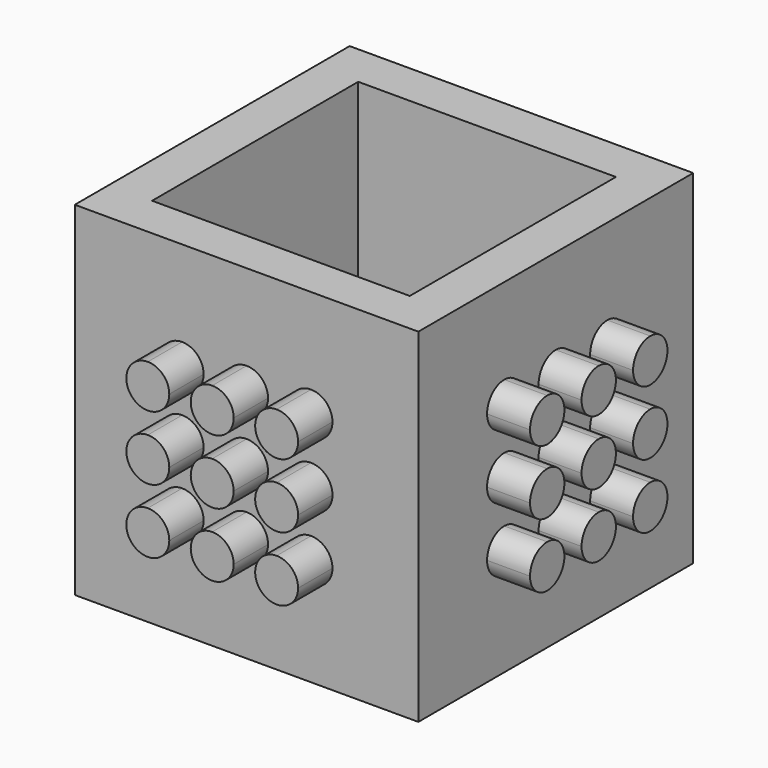
from build123d import *

# Parameters (mm, degrees)
F0_W      = 40
F0_H      = 40
F0_W_2    = 30
F0_H_2    = 30
F1_DEPTH  = 5
F2_W      = 40
F2_H      = 40
F2_W_2    = 30
F2_H_2    = 30
F3_DEPTH  = 35
F8_DEPTH  = 5
F9_DEPTH  = 5
F10_DEPTH = 5
F11_DEPTH = 5


with BuildPart() as f1:
    # F0 (on Top) → F1 (new body)
    with BuildSketch(Plane.XY):
        with Locations((20, 20)):
            Rectangle(F0_W, F0_H)
        with Locations((20, 20)):
            Rectangle(F0_W_2, F0_H_2, mode=Mode.SUBTRACT)
        with Locations((20, 20)):
            Rectangle(F0_W_2, F0_H_2)
    extrude(amount=F1_DEPTH)

    # F2 (on face) → F3 (join)
    with BuildSketch(Plane.XY.offset(5)):
        with Locations((20, 20)):
            Rectangle(F2_W, F2_H)
        with Locations((20, 20)):
            Rectangle(F2_W_2, F2_H_2, mode=Mode.SUBTRACT)
    extrude(amount=F3_DEPTH)

    # F7 (on face) → F8 (join)
    with BuildSketch(Plane(origin=(0, 0, 0), x_dir=(0, -1, 0), z_dir=(-1, 0, 0))):
        with BuildLine():
            ThreePointArc((-27.5, 30), (-29.267766953, 29.267766953), (-30, 27.5))
            ThreePointArc((-30, 27.5), (-29.267766953, 25.732233047), (-27.5, 25))
            ThreePointArc((-27.5, 25), (-25.732233047, 25.732233047), (-25, 27.5))
            ThreePointArc((-25, 27.5), (-25.732233047, 29.267766953), (-27.5, 30))
        make_face()
        with BuildLine():
            ThreePointArc((-17.5, 27.5), (-18.232233047, 29.267766953), (-20, 30))
            ThreePointArc((-20, 30), (-21.767766953, 29.267766953), (-22.5, 27.5))
            ThreePointArc((-22.5, 27.5), (-21.767766953, 25.732233047), (-20, 25))
            ThreePointArc((-20, 25), (-18.232233047, 25.732233047), (-17.5, 27.5))
        make_face()
        with BuildLine():
            ThreePointArc((-12.5, 25), (-10.732233047, 25.732233047), (-10, 27.5))
            ThreePointArc((-10, 27.5), (-10.732233047, 29.267766953), (-12.5, 30))
            ThreePointArc((-12.5, 30), (-14.267766953, 29.267766953), (-15, 27.5))
            ThreePointArc((-15, 27.5), (-14.267766953, 25.732233047), (-12.5, 25))
        make_face()
        with BuildLine():
            ThreePointArc((-15, 12.5), (-14.267766953, 10.732233047), (-12.5, 10))
            ThreePointArc((-12.5, 10), (-10.732233047, 10.732233047), (-10, 12.5))
            ThreePointArc((-10, 12.5), (-10.732233047, 14.267766953), (-12.5, 15))
            ThreePointArc((-12.5, 15), (-14.267766953, 14.267766953), (-15, 12.5))
        make_face()
        with BuildLine():
            ThreePointArc((-22.5, 12.5), (-21.767766953, 10.732233047), (-20, 10))
            ThreePointArc((-20, 10), (-18.232233047, 10.732233047), (-17.5, 12.5))
            ThreePointArc((-17.5, 12.5), (-18.232233047, 14.267766953), (-20, 15))
            ThreePointArc((-20, 15), (-21.767766953, 14.267766953), (-22.5, 12.5))
        make_face()
        with BuildLine():
            ThreePointArc((-30, 12.5), (-29.267766953, 10.732233047), (-27.5, 10))
            ThreePointArc((-27.5, 10), (-25.732233047, 10.732233047), (-25, 12.5))
            ThreePointArc((-25, 12.5), (-25.732233047, 14.267766953), (-27.5, 15))
            ThreePointArc((-27.5, 15), (-29.267766953, 14.267766953), (-30, 12.5))
        make_face()
        with BuildLine():
            ThreePointArc((-27.5, 22.5), (-29.267766953, 21.767766953), (-30, 20))
            ThreePointArc((-30, 20), (-29.267766953, 18.232233047), (-27.5, 17.5))
            ThreePointArc((-27.5, 17.5), (-25.732233047, 18.232233047), (-25, 20))
            ThreePointArc((-25, 20), (-25.732233047, 21.767766953), (-27.5, 22.5))
        make_face()
        with BuildLine():
            ThreePointArc((-12.5, 17.5), (-10.732233047, 18.232233047), (-10, 20))
            ThreePointArc((-10, 20), (-10.732233047, 21.767766953), (-12.5, 22.5))
            ThreePointArc((-12.5, 22.5), (-14.267766953, 21.767766953), (-15, 20))
            ThreePointArc((-15, 20), (-14.267766953, 18.232233047), (-12.5, 17.5))
        make_face()
        with BuildLine():
            ThreePointArc((-22.5, 20), (-21.767766953, 18.232233047), (-20, 17.5))
            ThreePointArc((-20, 17.5), (-18.232233047, 18.232233047), (-17.5, 20))
            ThreePointArc((-17.5, 20), (-18.232233047, 21.767766953), (-20, 22.5))
            ThreePointArc((-20, 22.5), (-21.767766953, 21.767766953), (-22.5, 20))
        make_face()
    extrude(amount=F8_DEPTH)

    # F4 (on Front) → F9 (join)
    with BuildSketch(Plane.XZ):
        with BuildLine():
            ThreePointArc((10, 12.5), (10.732233047, 10.732233047), (12.5, 10))
            ThreePointArc((12.5, 10), (14.267766953, 10.732233047), (15, 12.5))
            ThreePointArc((15, 12.5), (14.267766953, 14.267766953), (12.5, 15))
            ThreePointArc((12.5, 15), (10.732233047, 14.267766953), (10, 12.5))
        make_face()
        with BuildLine():
            ThreePointArc((17.5, 12.5), (18.232233047, 10.732233047), (20, 10))
            ThreePointArc((20, 10), (21.767766953, 10.732233047), (22.5, 12.5))
            ThreePointArc((22.5, 12.5), (21.767766953, 14.267766953), (20, 15))
            ThreePointArc((20, 15), (18.232233047, 14.267766953), (17.5, 12.5))
        make_face()
        with BuildLine():
            ThreePointArc((25, 12.5), (25.732233047, 10.732233047), (27.5, 10))
            ThreePointArc((27.5, 10), (29.267766953, 10.732233047), (30, 12.5))
            ThreePointArc((30, 12.5), (29.267766953, 14.267766953), (27.5, 15))
            ThreePointArc((27.5, 15), (25.732233047, 14.267766953), (25, 12.5))
        make_face()
        with BuildLine():
            ThreePointArc((27.5, 17.5), (29.267766953, 18.232233047), (30, 20))
            ThreePointArc((30, 20), (29.267766953, 21.767766953), (27.5, 22.5))
            ThreePointArc((27.5, 22.5), (25.732233047, 21.767766953), (25, 20))
            ThreePointArc((25, 20), (25.732233047, 18.232233047), (27.5, 17.5))
        make_face()
        with BuildLine():
            ThreePointArc((17.5, 20), (18.232233047, 18.232233047), (20, 17.5))
            ThreePointArc((20, 17.5), (21.767766953, 18.232233047), (22.5, 20))
            ThreePointArc((22.5, 20), (21.767766953, 21.767766953), (20, 22.5))
            ThreePointArc((20, 22.5), (18.232233047, 21.767766953), (17.5, 20))
        make_face()
        with BuildLine():
            ThreePointArc((12.5, 22.5), (10.732233047, 21.767766953), (10, 20))
            ThreePointArc((10, 20), (10.732233047, 18.232233047), (12.5, 17.5))
            ThreePointArc((12.5, 17.5), (14.267766953, 18.232233047), (15, 20))
            ThreePointArc((15, 20), (14.267766953, 21.767766953), (12.5, 22.5))
        make_face()
        with BuildLine():
            ThreePointArc((12.5, 30), (10.732233047, 29.267766953), (10, 27.5))
            ThreePointArc((10, 27.5), (10.732233047, 25.732233047), (12.5, 25))
            ThreePointArc((12.5, 25), (14.267766953, 25.732233047), (15, 27.5))
            ThreePointArc((15, 27.5), (14.267766953, 29.267766953), (12.5, 30))
        make_face()
        with BuildLine():
            ThreePointArc((22.5, 27.5), (21.767766953, 29.267766953), (20, 30))
            ThreePointArc((20, 30), (18.232233047, 29.267766953), (17.5, 27.5))
            ThreePointArc((17.5, 27.5), (18.232233047, 25.732233047), (20, 25))
            ThreePointArc((20, 25), (21.767766953, 25.732233047), (22.5, 27.5))
        make_face()
        with BuildLine():
            ThreePointArc((27.5, 25), (29.267766953, 25.732233047), (30, 27.5))
            ThreePointArc((30, 27.5), (29.267766953, 29.267766953), (27.5, 30))
            ThreePointArc((27.5, 30), (25.732233047, 29.267766953), (25, 27.5))
            ThreePointArc((25, 27.5), (25.732233047, 25.732233047), (27.5, 25))
        make_face()
    extrude(amount=F9_DEPTH)

    # F6 (on face) → F10 (join)
    with BuildSketch(Plane(origin=(0, 40, 0), x_dir=(-1, 0, 0), z_dir=(0, 1, 0))):
        with BuildLine():
            ThreePointArc((-30, 12.5), (-29.267766953, 10.732233047), (-27.5, 10))
            ThreePointArc((-27.5, 10), (-25.732233047, 10.732233047), (-25, 12.5))
            ThreePointArc((-25, 12.5), (-25.732233047, 14.267766953), (-27.5, 15))
            ThreePointArc((-27.5, 15), (-29.267766953, 14.267766953), (-30, 12.5))
        make_face()
        with BuildLine():
            ThreePointArc((-27.5, 22.5), (-29.267766953, 21.767766953), (-30, 20))
            ThreePointArc((-30, 20), (-29.267766953, 18.232233047), (-27.5, 17.5))
            ThreePointArc((-27.5, 17.5), (-25.732233047, 18.232233047), (-25, 20))
            ThreePointArc((-25, 20), (-25.732233047, 21.767766953), (-27.5, 22.5))
        make_face()
        with BuildLine():
            ThreePointArc((-27.5, 30), (-29.267766953, 29.267766953), (-30, 27.5))
            ThreePointArc((-30, 27.5), (-29.267766953, 25.732233047), (-27.5, 25))
            ThreePointArc((-27.5, 25), (-25.732233047, 25.732233047), (-25, 27.5))
            ThreePointArc((-25, 27.5), (-25.732233047, 29.267766953), (-27.5, 30))
        make_face()
        with BuildLine():
            ThreePointArc((-17.5, 27.5), (-18.232233047, 29.267766953), (-20, 30))
            ThreePointArc((-20, 30), (-21.767766953, 29.267766953), (-22.5, 27.5))
            ThreePointArc((-22.5, 27.5), (-21.767766953, 25.732233047), (-20, 25))
            ThreePointArc((-20, 25), (-18.232233047, 25.732233047), (-17.5, 27.5))
        make_face()
        with BuildLine():
            ThreePointArc((-22.5, 20), (-21.767766953, 18.232233047), (-20, 17.5))
            ThreePointArc((-20, 17.5), (-18.232233047, 18.232233047), (-17.5, 20))
            ThreePointArc((-17.5, 20), (-18.232233047, 21.767766953), (-20, 22.5))
            ThreePointArc((-20, 22.5), (-21.767766953, 21.767766953), (-22.5, 20))
        make_face()
        with BuildLine():
            ThreePointArc((-22.5, 12.5), (-21.767766953, 10.732233047), (-20, 10))
            ThreePointArc((-20, 10), (-18.232233047, 10.732233047), (-17.5, 12.5))
            ThreePointArc((-17.5, 12.5), (-18.232233047, 14.267766953), (-20, 15))
            ThreePointArc((-20, 15), (-21.767766953, 14.267766953), (-22.5, 12.5))
        make_face()
        with BuildLine():
            ThreePointArc((-15, 12.5), (-14.267766953, 10.732233047), (-12.5, 10))
            ThreePointArc((-12.5, 10), (-10.732233047, 10.732233047), (-10, 12.5))
            ThreePointArc((-10, 12.5), (-10.732233047, 14.267766953), (-12.5, 15))
            ThreePointArc((-12.5, 15), (-14.267766953, 14.267766953), (-15, 12.5))
        make_face()
        with BuildLine():
            ThreePointArc((-12.5, 17.5), (-10.732233047, 18.232233047), (-10, 20))
            ThreePointArc((-10, 20), (-10.732233047, 21.767766953), (-12.5, 22.5))
            ThreePointArc((-12.5, 22.5), (-14.267766953, 21.767766953), (-15, 20))
            ThreePointArc((-15, 20), (-14.267766953, 18.232233047), (-12.5, 17.5))
        make_face()
        with BuildLine():
            ThreePointArc((-12.5, 25), (-10.732233047, 25.732233047), (-10, 27.5))
            ThreePointArc((-10, 27.5), (-10.732233047, 29.267766953), (-12.5, 30))
            ThreePointArc((-12.5, 30), (-14.267766953, 29.267766953), (-15, 27.5))
            ThreePointArc((-15, 27.5), (-14.267766953, 25.732233047), (-12.5, 25))
        make_face()
    extrude(amount=F10_DEPTH)

    # F5 (on face) → F11 (join)
    with BuildSketch(Plane.YZ.offset(40)):
        with BuildLine():
            ThreePointArc((12.5, 30), (10.732233047, 29.267766953), (10, 27.5))
            ThreePointArc((10, 27.5), (10.732233047, 25.732233047), (12.5, 25))
            ThreePointArc((12.5, 25), (14.267766953, 25.732233047), (15, 27.5))
            ThreePointArc((15, 27.5), (14.267766953, 29.267766953), (12.5, 30))
        make_face()
        with BuildLine():
            ThreePointArc((22.5, 27.5), (21.767766953, 29.267766953), (20, 30))
            ThreePointArc((20, 30), (18.232233047, 29.267766953), (17.5, 27.5))
            ThreePointArc((17.5, 27.5), (18.232233047, 25.732233047), (20, 25))
            ThreePointArc((20, 25), (21.767766953, 25.732233047), (22.5, 27.5))
        make_face()
        with BuildLine():
            ThreePointArc((27.5, 25), (29.267766953, 25.732233047), (30, 27.5))
            ThreePointArc((30, 27.5), (29.267766953, 29.267766953), (27.5, 30))
            ThreePointArc((27.5, 30), (25.732233047, 29.267766953), (25, 27.5))
            ThreePointArc((25, 27.5), (25.732233047, 25.732233047), (27.5, 25))
        make_face()
        with BuildLine():
            ThreePointArc((27.5, 17.5), (29.267766953, 18.232233047), (30, 20))
            ThreePointArc((30, 20), (29.267766953, 21.767766953), (27.5, 22.5))
            ThreePointArc((27.5, 22.5), (25.732233047, 21.767766953), (25, 20))
            ThreePointArc((25, 20), (25.732233047, 18.232233047), (27.5, 17.5))
        make_face()
        with BuildLine():
            ThreePointArc((25, 12.5), (25.732233047, 10.732233047), (27.5, 10))
            ThreePointArc((27.5, 10), (29.267766953, 10.732233047), (30, 12.5))
            ThreePointArc((30, 12.5), (29.267766953, 14.267766953), (27.5, 15))
            ThreePointArc((27.5, 15), (25.732233047, 14.267766953), (25, 12.5))
        make_face()
        with BuildLine():
            ThreePointArc((17.5, 12.5), (18.232233047, 10.732233047), (20, 10))
            ThreePointArc((20, 10), (21.767766953, 10.732233047), (22.5, 12.5))
            ThreePointArc((22.5, 12.5), (21.767766953, 14.267766953), (20, 15))
            ThreePointArc((20, 15), (18.232233047, 14.267766953), (17.5, 12.5))
        make_face()
        with BuildLine():
            ThreePointArc((10, 12.5), (10.732233047, 10.732233047), (12.5, 10))
            ThreePointArc((12.5, 10), (14.267766953, 10.732233047), (15, 12.5))
            ThreePointArc((15, 12.5), (14.267766953, 14.267766953), (12.5, 15))
            ThreePointArc((12.5, 15), (10.732233047, 14.267766953), (10, 12.5))
        make_face()
        with BuildLine():
            ThreePointArc((12.5, 22.5), (10.732233047, 21.767766953), (10, 20))
            ThreePointArc((10, 20), (10.732233047, 18.232233047), (12.5, 17.5))
            ThreePointArc((12.5, 17.5), (14.267766953, 18.232233047), (15, 20))
            ThreePointArc((15, 20), (14.267766953, 21.767766953), (12.5, 22.5))
        make_face()
        with BuildLine():
            ThreePointArc((17.5, 20), (18.232233047, 18.232233047), (20, 17.5))
            ThreePointArc((20, 17.5), (21.767766953, 18.232233047), (22.5, 20))
            ThreePointArc((22.5, 20), (21.767766953, 21.767766953), (20, 22.5))
            ThreePointArc((20, 22.5), (18.232233047, 21.767766953), (17.5, 20))
        make_face()
    extrude(amount=F11_DEPTH)


solid = f1.part
